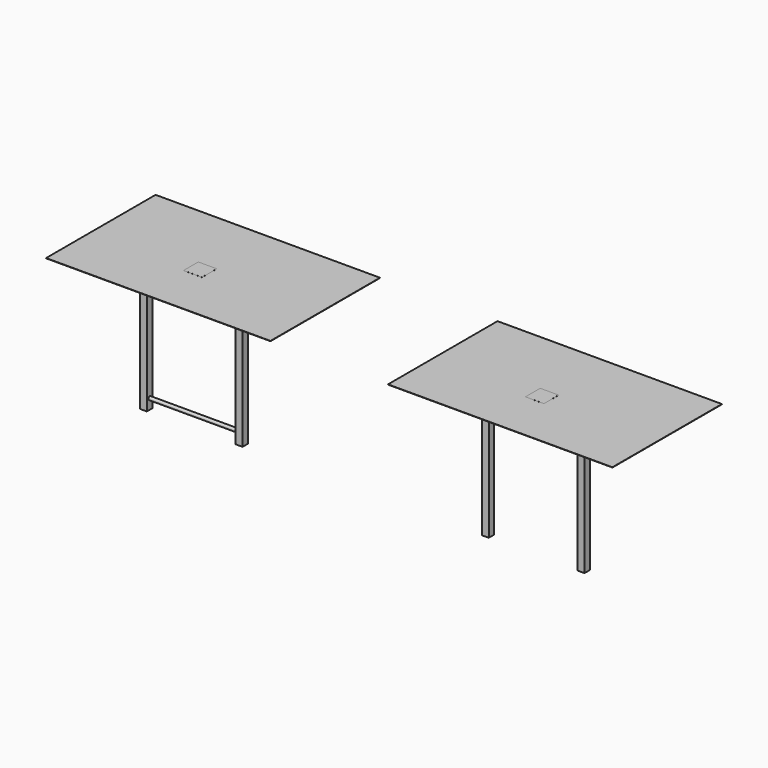
from build123d import *

# Parameters (mm, degrees)
F0_W      = 100
F0_H      = 100
F0_W_2    = 94
F0_H_2    = 94
F1_DEPTH  = 2000
F2_R      = 25
F2_R_2    = 23.5
F3_DEPTH  = 1300
F4_W      = 3281.227827
F4_H      = 2001.44279
F5_DEPTH  = 4
F6_W      = 270.116926
F6_H      = 270.116925
F7_DEPTH  = 0.5
F9_W      = 899.782896
F9_H      = 436.490618
F10_DEPTH = 1300


with BuildPart() as f1:
    # F0 (on Top) → F1 (new body)
    with BuildSketch(Plane.XY):
        with Locations((-194.106018, -4.919838)):
            Rectangle(F0_W, F0_H)
        with Locations((-194.106018, -4.919838)):
            Rectangle(F0_W_2, F0_H_2, mode=Mode.SUBTRACT)
        with Locations((1205.893982, -4.919838)):
            Rectangle(F0_W, F0_H)
        with Locations((1205.893982, -4.919838)):
            Rectangle(F0_W_2, F0_H_2, mode=Mode.SUBTRACT)
    extrude(amount=F1_DEPTH)

    # F2 (on face) → F3 (join, through all)
    with BuildSketch(Plane.YZ.offset(-144.106018)):
        with Locations((0, 150)):
            Circle(F2_R)
        with Locations((0, 150)):
            Circle(F2_R_2, mode=Mode.SUBTRACT)
    extrude(amount=F3_DEPTH)

    # F4 (on face) → F5 (join)
    with BuildSketch(Plane.XY.offset(2000)):
        with Locations((632.445931, 184.42291)):
            Rectangle(F4_W, F4_H)
    extrude(amount=F5_DEPTH)

    # F6 (on face) → F7 (join)
    with BuildSketch(Plane.XY.offset(2004)):
        with Locations((545.289576, 57.770937)):
            Rectangle(F6_W, F6_H)
    extrude(amount=F7_DEPTH)


with BuildPart() as f8_1:
    # F8: copy of F1
    add(f1.part.moved(Location((5000, 0, 0))))

    # F9 (on face) → F10 (cut)
    with BuildSketch(Plane.YZ.offset(4855.893982)):
        with Locations((10.314554, 177.6294)):
            Rectangle(F9_W, F9_H)
    extrude(amount=F10_DEPTH, mode=Mode.SUBTRACT)


solid = Compound([f1.part, f8_1.part])
